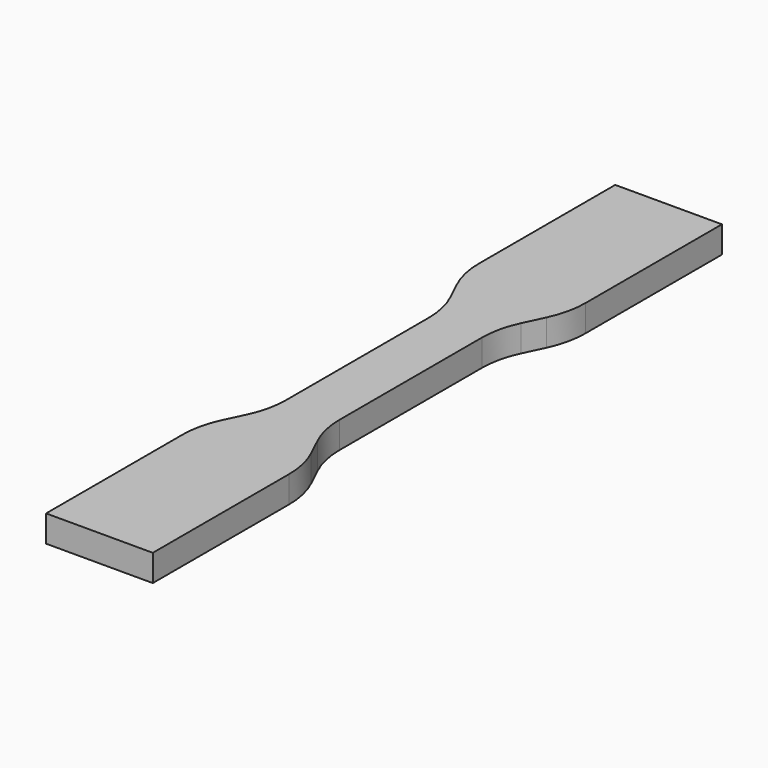
from build123d import *

# Parameters (mm, degrees)
F1_DEPTH = 3


with BuildPart() as f1:
    # F0 (on Top) → F1 (new body)
    with BuildSketch(Plane.XY):
        with BuildLine():
            Line((3, -10), (3, 0))
            Line((3, 0), (3, 10))
            ThreePointArc((3, 10), (3.244083, 12.195926), (3.964418, 14.284654))
            Line((3.964418, 14.284654), (5.035582, 16.54355))
            ThreePointArc((5.035582, 16.54355), (5.755917, 18.632278), (6, 20.828204))
            Line((6, 20.828204), (6, 40))
            Line((6, 40), (0, 40))
            Line((0, 40), (-6, 40))
            Line((-6, 40), (-6, 20.828204))
            ThreePointArc((-6, 20.828204), (-5.755917, 18.632278), (-5.035582, 16.54355))
            Line((-5.035582, 16.54355), (-3.964418, 14.284654))
            ThreePointArc((-3.964418, 14.284654), (-3.244083, 12.195926), (-3, 10))
            Line((-3, 10), (-3, 0))
            Line((-3, 0), (-3, -10))
            ThreePointArc((-3, -10), (-3.244083, -12.195926), (-3.964418, -14.284654))
            Line((-3.964418, -14.284654), (-5.035582, -16.54355))
            ThreePointArc((-5.035582, -16.54355), (-5.755917, -18.632278), (-6, -20.828204))
            Line((-6, -20.828204), (-6, -40))
            Line((-6, -40), (0, -40))
            Line((0, -40), (6, -40))
            Line((6, -40), (6, -20.828204))
            ThreePointArc((6, -20.828204), (5.755917, -18.632278), (5.035582, -16.54355))
            Line((5.035582, -16.54355), (3.964418, -14.284654))
            ThreePointArc((3.964418, -14.284654), (3.244083, -12.195926), (3, -10))
        make_face()
    extrude(amount=F1_DEPTH)


solid = f1.part
